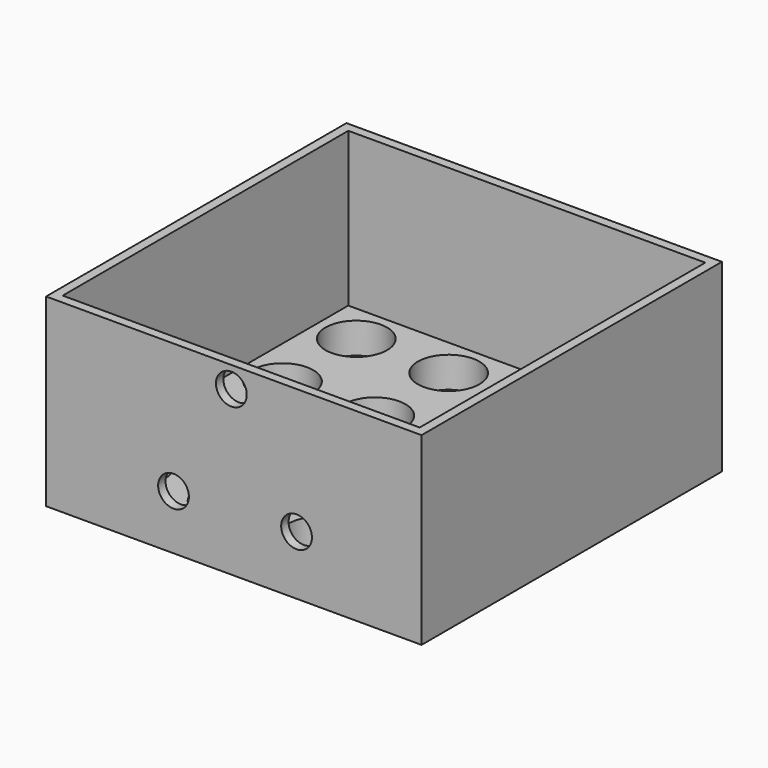
from build123d import *

# Parameters (mm, degrees)
F0_W     = 61
F0_H     = 61
F0_R     = 5
F1_DEPTH = 5
F2_W     = 61
F2_H     = 61
F2_W_2   = 58
F2_H_2   = 58
F3_DEPTH = 25
F4_R     = 2.5
F5_DEPTH = 1.5


with BuildPart() as f1:
    # F0 (on Top) → F1 (new body)
    with BuildSketch(Plane.XY):
        with Locations((22.5, 22.5)):
            Rectangle(F0_W, F0_H)
        Circle(F0_R, mode=Mode.SUBTRACT)
        with Locations((15, 0)):
            Circle(F0_R, mode=Mode.SUBTRACT)
        with Locations((0, 15)):
            Circle(F0_R, mode=Mode.SUBTRACT)
        with Locations((15, 15)):
            Circle(F0_R, mode=Mode.SUBTRACT)
        with Locations((30, 0)):
            Circle(F0_R, mode=Mode.SUBTRACT)
        with Locations((45, 0)):
            Circle(F0_R, mode=Mode.SUBTRACT)
        with Locations((30, 15)):
            Circle(F0_R, mode=Mode.SUBTRACT)
        with Locations((45, 15)):
            Circle(F0_R, mode=Mode.SUBTRACT)
        with Locations((0, 30)):
            Circle(F0_R, mode=Mode.SUBTRACT)
        with Locations((15, 30)):
            Circle(F0_R, mode=Mode.SUBTRACT)
        with Locations((0, 45)):
            Circle(F0_R, mode=Mode.SUBTRACT)
        with Locations((15, 45)):
            Circle(F0_R, mode=Mode.SUBTRACT)
        with Locations((30, 30)):
            Circle(F0_R, mode=Mode.SUBTRACT)
        with Locations((45, 30)):
            Circle(F0_R, mode=Mode.SUBTRACT)
        with Locations((30, 45)):
            Circle(F0_R, mode=Mode.SUBTRACT)
        with Locations((45, 45)):
            Circle(F0_R, mode=Mode.SUBTRACT)
    extrude(amount=F1_DEPTH)

    # F2 (on face) → F3 (join)
    with BuildSketch(Plane.XY.offset(5)):
        with Locations((22.5, 22.5)):
            Rectangle(F2_W, F2_H)
        with Locations((22.5, 22.5)):
            Rectangle(F2_W_2, F2_H_2, mode=Mode.SUBTRACT)
    extrude(amount=F3_DEPTH)

    # F4 (on face) → F5 (cut, through all)
    with BuildSketch(Plane.XZ.offset(8)):
        with Locations((22.101691, 26.540134)):
            Circle(F4_R)
        with Locations((12.705106, 8.884987)):
            Circle(F4_R)
        with Locations((32.693203, 9.574879)):
            Circle(F4_R)
    extrude(amount=-F5_DEPTH, mode=Mode.SUBTRACT)


solid = f1.part
